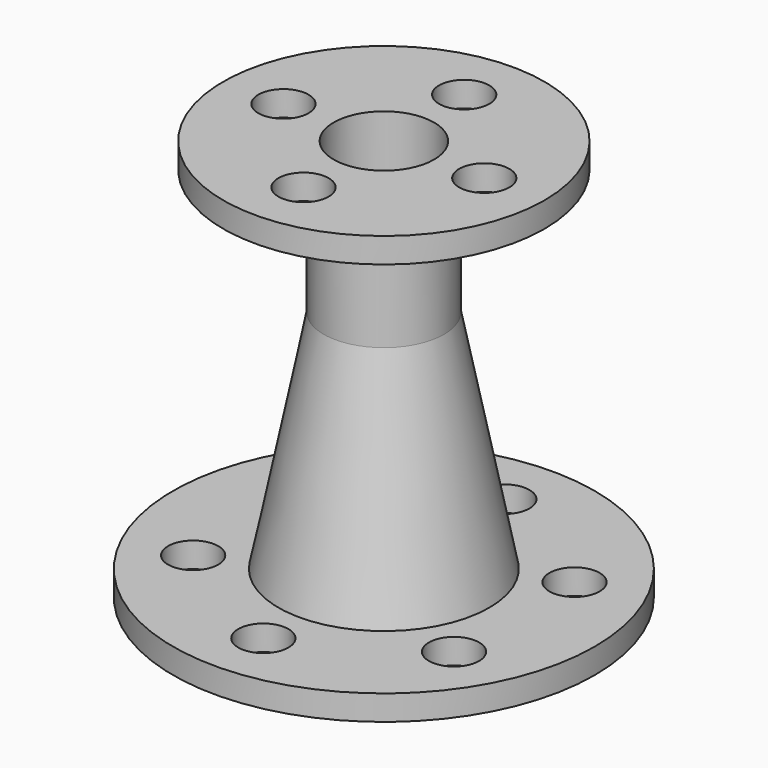
from build123d import *

# Parameters (mm, degrees)
F2_R      = 12
F0_R      = 22
F6_R      = 42
F6_R_2    = 20
F7_DEPTH  = 5
F5_R      = 20
F4_R      = 10
F9_R      = 5
F10_DEPTH = 5
F4_R_2    = 12
F11_DEPTH = 30
F12_R     = 32
F12_R_2   = 12
F13_DEPTH = 5
F14_R     = 5
F15_DEPTH = 5


with BuildPart() as f3:
    # F2 (on offset) → F3 section 0
    with BuildSketch(Plane.XY.offset(50)):
        Circle(F2_R)
    # F0 (on Top) → F3 section 1
    with BuildSketch(Plane.XY):
        Circle(F0_R)
    loft()

    # F6 (on face) → F7 (join)
    with BuildSketch(Plane(origin=(0, 0, 0), x_dir=(1, 0, 0), z_dir=(0, 0, -1))):
        Circle(F6_R)
        Circle(F6_R_2, mode=Mode.SUBTRACT)
    extrude(amount=-F7_DEPTH)

    # F5 (on face) → F8 section 0
    with BuildSketch(Plane(origin=(0, 0, 0), x_dir=(1, 0, 0), z_dir=(0, 0, -1))):
        Circle(F5_R)
    # F4 (on face) → F8 section 1
    with BuildSketch(Plane.XY.offset(50)):
        Circle(F4_R)
    loft(mode=Mode.SUBTRACT)

    # F9 (on face) → F10 (cut, through all)
    with BuildSketch(Plane(origin=(0, 0, 0), x_dir=(1, 0, 0), z_dir=(0, 0, -1))):
        with Locations((0, 30)):
            Circle(F9_R)
        with Locations((-25.9807621135, 15)):
            Circle(F9_R)
        with Locations((25.9807621135, 15)):
            Circle(F9_R)
        with Locations((25.9807621135, -15)):
            Circle(F9_R)
        with Locations((0, -30)):
            Circle(F9_R)
        with Locations((-25.9807621135, -15)):
            Circle(F9_R)
    extrude(amount=-F10_DEPTH, mode=Mode.SUBTRACT)

    # F4 (on face) → F11 (join)
    with BuildSketch(Plane.XY.offset(50)):
        Circle(F4_R_2)
        Circle(F4_R, mode=Mode.SUBTRACT)
    extrude(amount=F11_DEPTH)

    # F12 (on face) → F13 (join)
    with BuildSketch(Plane.XY.offset(80)):
        Circle(F12_R)
        Circle(F12_R_2, mode=Mode.SUBTRACT)
    extrude(amount=-F13_DEPTH)

    # F14 (on face) → F15 (cut, through all)
    with BuildSketch(Plane.XY.offset(80)):
        with Locations((0, 20)):
            Circle(F14_R)
        with Locations((-20, 0)):
            Circle(F14_R)
        with Locations((0, -20)):
            Circle(F14_R)
        with Locations((20, 0)):
            Circle(F14_R)
    extrude(amount=-F15_DEPTH, mode=Mode.SUBTRACT)


solid = f3.part
